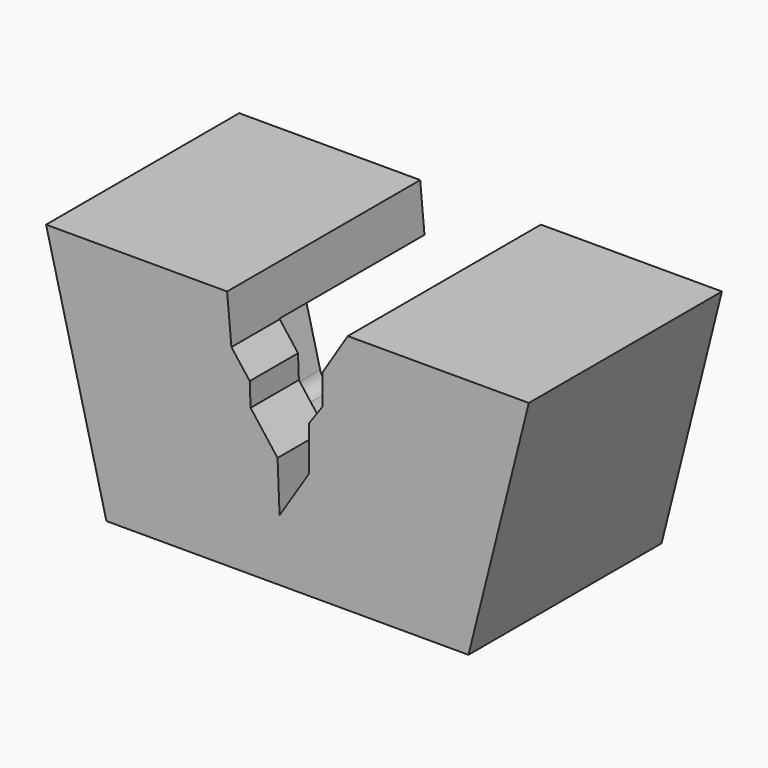
from build123d import *

# Parameters (mm, degrees)
F1_DEPTH = 101.6
F3_DEPTH = 76.2
F4_R     = 6.35


with BuildPart() as f1:
    # F0 (on Front) → F1 (new body)
    with BuildSketch(Plane.XZ):
        Polygon((-21.789443, 50.194677), (-97.989443, 50.194677), (-72.589443, -51.405323), (79.810557, -51.405323), (105.210557, 50.194677), (29.010557, 50.194677), (18.30329, 33.187184), (18.30329, 20.498006), (12.626553, 12.483789), (12.626553, -6.216054), (0.295312, -25.542488), (-0.553554, -4.574321), (-11.90842, 10.283374), (-12.26442, 20.09797), (-19.969508, 30.179977), align=None)
    extrude(amount=F1_DEPTH)

    # F2 (on Front) → F3 (cut)
    with BuildSketch(Plane.XZ):
        with BuildLine():
            Line((-49.430657, 37.494677), (-81.723583, 37.494677))
            Line((-81.723583, 37.494677), (-62.673583, -38.705323))
            Line((-62.673583, -38.705323), (-11.882212, -38.705323))
            Line((-11.882212, -38.705323), (0, -24.789929))
            Line((0, -24.789929), (6.961702, -38.705323))
            Line((6.961702, -38.705323), (69.894697, -38.705323))
            Line((69.894697, -38.705323), (88.944697, 37.494677))
            Line((88.944697, 37.494677), (36.022353, 37.494677))
            ThreePointArc((36.022353, 37.494677), (27.04006, 36.48556), (18.505591, 33.508521))
            Line((18.505591, 33.508521), (-19.994486, 30.454669))
            ThreePointArc((-19.994486, 30.454669), (-34.271665, 35.818222), (-49.430657, 37.494677))
        make_face()
    extrude(amount=F3_DEPTH, mode=Mode.SUBTRACT)

    # F4
    f4_edges = [f1.edges().sort_by_distance(p)[0] for p in [
        (-11.882212, -38.1, -38.705323),
        (6.961702, -38.1, -38.705323),
        (-62.673583, -38.1, -38.705323),
        (69.894697, -38.1, -38.705323),
        (88.944697, -38.1, 37.494677),
        (-81.723583, -38.1, 37.494677),
    ]]
    fillet(f4_edges, radius=F4_R)


solid = f1.part
